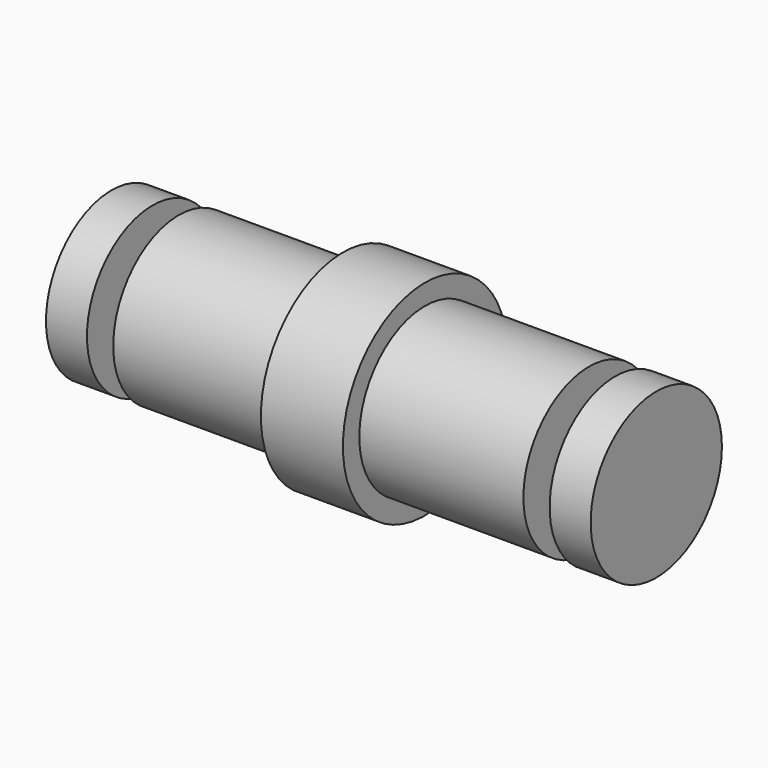
from build123d import *

# Parameters (mm, degrees)
F0_W = 1.016
F0_H = 1.5875


with BuildPart() as f1:
    # F0 (on Top) → F1 (revolve)
    with BuildSketch(Plane.XY):
        Polygon((-16.112294, 3.175), (-16.112294, 0), (-14.524794, 0), (-14.524794, 1.5875), (-14.524794, 3.175), align=None)
        with Locations((-14.016794, 0.79375)):
            Rectangle(F0_W, F0_H)
        Polygon((-13.508794, 1.5875), (-13.508794, 0), (-7.158794, 0), (-7.158794, 3.175), (-13.508794, 3.175), align=None)
        Polygon((-7.158794, 3.175), (-7.158794, 0), (-3.983794, 0), (-3.983794, 3.175), (-3.983794, 3.96875), (-7.158794, 3.96875), align=None)
        Polygon((-3.983794, 3.175), (-3.983794, 0), (2.366206, 0), (2.366206, 1.5875), (2.366206, 3.175), align=None)
        with Locations((2.874206, 0.79375)):
            Rectangle(F0_W, F0_H)
        Polygon((3.382206, 1.5875), (3.382206, 0), (4.969706, 0), (4.969706, 3.175), (3.382206, 3.175), align=None)
    revolve(axis=Axis((-5.571294, 0, 0), (1, 0, 0)))


solid = f1.part
